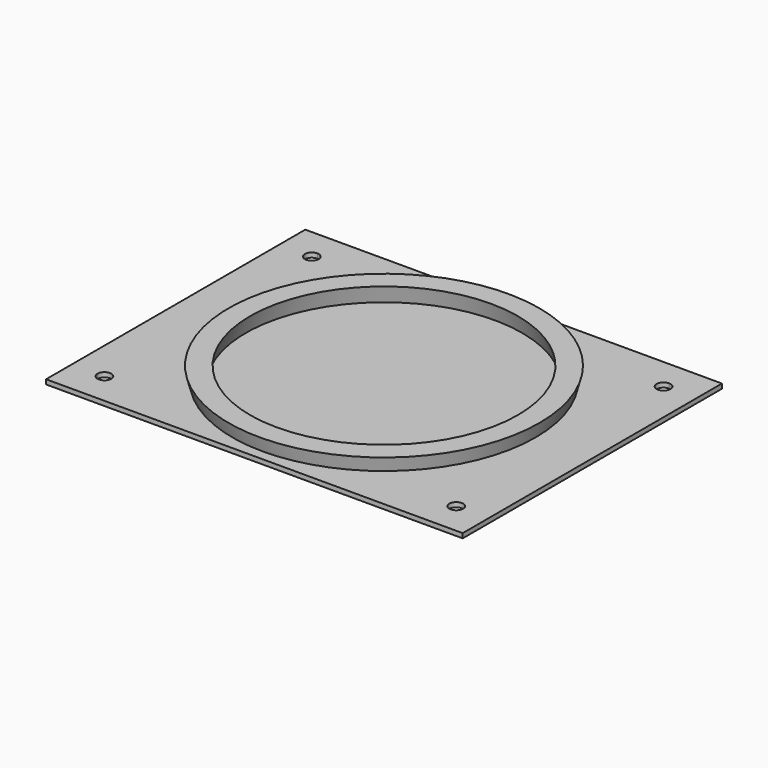
from build123d import *

# Parameters (mm, degrees)
F0_R     = 32.5
F1_DEPTH = 1
F0_R_2   = 30
F2_DEPTH = 0.5
F3_DEPTH = 4
F3_TAPER = -15


with BuildPart() as f1:
    # F0 (on Top) → F1 (new body)
    with BuildSketch(Plane.XY):
        with BuildLine():
            Line((-38, -35), (38, -35))
            Line((38, -35), (38, -29.5))
            ThreePointArc((38, -29.5), (36.9393398282, -26.9393398282), (39.5, -28))
            Line((39.5, -28), (45, -28))
            Line((45, -28), (45, 28))
            Line((45, 28), (39.5, 28))
            ThreePointArc((39.5, 28), (36.9393398282, 26.9393398282), (38, 29.5))
            Line((38, 29.5), (38, 35))
            Line((38, 35), (-38, 35))
            Line((-38, 35), (-38, 29.5))
            ThreePointArc((-38, 29.5), (-36.9393398282, 29.0606601718), (-36.5, 28))
            ThreePointArc((-36.5, 28), (-38, 26.5), (-39.5, 28))
            Line((-39.5, 28), (-45, 28))
            Line((-45, 28), (-45, -28))
            Line((-45, -28), (-39.5, -28))
            ThreePointArc((-39.5, -28), (-38, -26.5), (-36.5, -28))
            ThreePointArc((-36.5, -28), (-36.9393398282, -29.0606601718), (-38, -29.5))
            Line((-38, -29.5), (-38, -35))
        make_face()
        Circle(F0_R, mode=Mode.SUBTRACT)
        with BuildLine():
            Line((-45, 35), (-45, 28))
            Line((-45, 28), (-39.5, 28))
            ThreePointArc((-39.5, 28), (-39.0606601718, 29.0606601718), (-38, 29.5))
            Line((-38, 29.5), (-38, 35))
            Line((-38, 35), (-45, 35))
        make_face()
        with BuildLine():
            Line((39.5, 28), (45, 28))
            Line((45, 28), (45, 35))
            Line((45, 35), (38, 35))
            Line((38, 35), (38, 29.5))
            ThreePointArc((38, 29.5), (39.0606601718, 29.0606601718), (39.5, 28))
        make_face()
        with BuildLine():
            Line((38, -35), (45, -35))
            Line((45, -35), (45, -28))
            Line((45, -28), (39.5, -28))
            ThreePointArc((39.5, -28), (39.0606601718, -29.0606601718), (38, -29.5))
            Line((38, -29.5), (38, -35))
        make_face()
        with BuildLine():
            Line((-45, -35), (-38, -35))
            Line((-38, -35), (-38, -29.5))
            ThreePointArc((-38, -29.5), (-39.0606601718, -29.0606601718), (-39.5, -28))
            Line((-39.5, -28), (-45, -28))
            Line((-45, -28), (-45, -35))
        make_face()
    extrude(amount=F1_DEPTH)



with BuildPart() as f2:
    # F0 (on Top) → F2 (new body)
    with BuildSketch(Plane.XY):
        Circle(F0_R_2)
    extrude(amount=F2_DEPTH)


with BuildPart() as f1_1:
    add(f1.part)

    add(f2.part)  # F3 merges F2
    # F0 (on Top) → F3 (join)
    with BuildSketch(Plane.XY):
        Circle(F0_R)
        Circle(F0_R_2, mode=Mode.SUBTRACT)
    extrude(amount=F3_DEPTH, taper=F3_TAPER)


solid = f1_1.part
